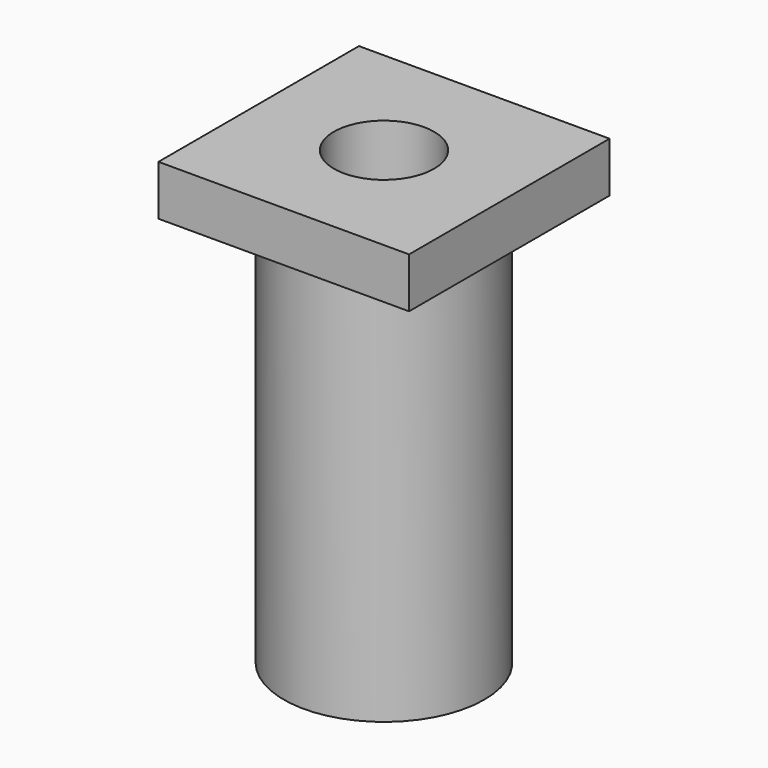
from build123d import *

# Parameters (mm, degrees)
F0_R     = 3.175
F0_R_2   = 1.5875
F1_DEPTH = 12.7
F2_W     = 7.9375
F2_H     = 7.9375
F2_R     = 1.5875
F3_DEPTH = 1.5875


with BuildPart() as f1:
    # F0 (on Top) → F1 (new body)
    with BuildSketch(Plane.XY):
        Circle(F0_R)
        Circle(F0_R_2, mode=Mode.SUBTRACT)
    extrude(amount=F1_DEPTH)

    # F2 (on face) → F3 (join)
    with BuildSketch(Plane.XY.offset(12.7)):
        Rectangle(F2_W, F2_H)
        Circle(F2_R, mode=Mode.SUBTRACT)
    extrude(amount=F3_DEPTH)


solid = f1.part
